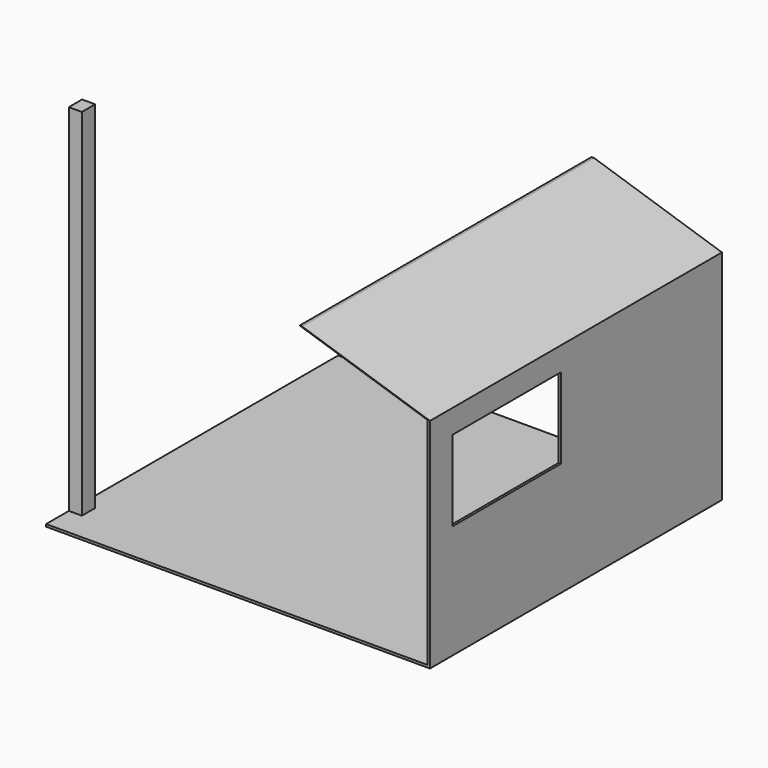
from build123d import *

# Parameters (mm, degrees)
F0_W     = 4114.8
F0_H     = 3911.6
F1_DEPTH = 25.4
F2_W     = 25.4
F2_H     = 3911.6
F3_DEPTH = 2311.4
F4_W     = 1447.8
F4_H     = 863.6
F5_DEPTH = 25.4
F6_W     = 139.7
F6_H     = 177.8
F7_DEPTH = 3810
F9_DEPTH = 3911.6


with BuildPart() as f1:
    # F0 (on Top) → F1 (new body)
    with BuildSketch(Plane.XY):
        Rectangle(F0_W, F0_H)
    extrude(amount=-F1_DEPTH)

    # F2 (on face) → F3 (join)
    with BuildSketch(Plane.XY):
        with Locations((2044.7, 0)):
            Rectangle(F2_W, F2_H)
    extrude(amount=F3_DEPTH)

    # F4 (on face) → F5 (cut)
    with BuildSketch(Plane.YZ.offset(2057.4)):
        with Locations((-927.1, 1625.6)):
            Rectangle(F4_W, F4_H)
    extrude(amount=-F5_DEPTH, mode=Mode.SUBTRACT)

    # F6 (on face) → F7 (join)
    with BuildSketch(Plane.XY):
        with Locations((-1987.55, -1562.1)):
            Rectangle(F6_W, F6_H)
    extrude(amount=F7_DEPTH)

    # F8 (on face) → F9 (join, through all)
    with BuildSketch(Plane.XZ.offset(1955.8)):
        Polygon((660.623378, 2756.987276), (2032, 2311.4), (2057.4, 2311.4), (686.023378, 2756.987276), align=None)
    extrude(amount=-F9_DEPTH)


solid = f1.part
